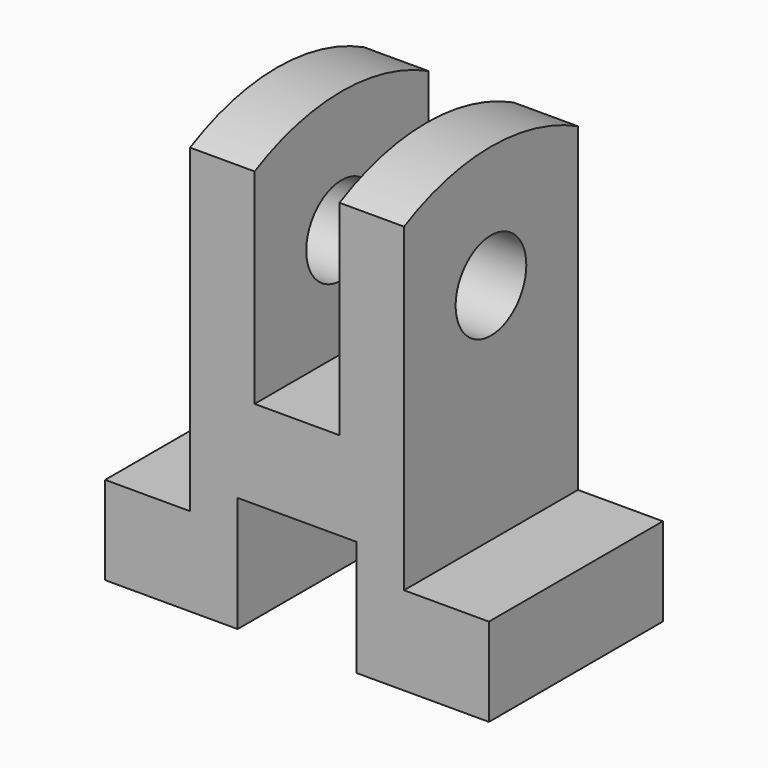
from build123d import *

# Parameters (mm, degrees)
F0_W     = 32
F0_H     = 13
F1_DEPTH = 28.25
F0_H_2   = 4
F0_R     = 6.5
F2_DEPTH = 15.75
F3_DEPTH = 6.25
F4_DEPTH = 8.75
F6_R     = 6.5
F7_DEPTH = 50


with BuildPart() as f1:
    # F0 (on Right) → F1 (new body, symmetric)
    with BuildSketch(Plane.YZ):
        with Locations((16, 6.5)):
            Rectangle(F0_W, F0_H)
    extrude(amount=F1_DEPTH, both=True)

    # F0 (on Right) → F2 (join, symmetric)
    with BuildSketch(Plane.YZ):
        with Locations((16, 23.5)):
            Rectangle(F0_W, F0_H)
        with Locations((16, 15)):
            Rectangle(F0_W, F0_H_2)
        with BuildLine():
            Line((0, 60.128765), (0, 30))
            Line((0, 30), (32, 30))
            Line((32, 30), (32, 60.128765))
            ThreePointArc((32, 60.128765), (16, 64), (0, 60.128765))
        make_face()
        with Locations((16, 46)):
            Circle(F0_R, mode=Mode.SUBTRACT)
    extrude(amount=F2_DEPTH, both=True)

    # F0 (on Right) → F3 (cut, symmetric)
    with BuildSketch(Plane.YZ):
        with BuildLine():
            Line((0, 60.128765), (0, 30))
            Line((0, 30), (32, 30))
            Line((32, 30), (32, 60.128765))
            ThreePointArc((32, 60.128765), (16, 64), (0, 60.128765))
        make_face()
        with Locations((16, 46)):
            Circle(F0_R, mode=Mode.SUBTRACT)
    extrude(amount=F3_DEPTH, both=True, mode=Mode.SUBTRACT)

    # F0 (on Right) → F4 (cut, symmetric)
    with BuildSketch(Plane.YZ):
        with Locations((16, 15)):
            Rectangle(F0_W, F0_H_2)
        with Locations((16, 6.5)):
            Rectangle(F0_W, F0_H)
    extrude(amount=F4_DEPTH, both=True, mode=Mode.SUBTRACT)


with BuildPart() as f7:
    # F6 (on offset) → F7 (new body)
    with BuildSketch(Plane(origin=(40.75, 16, 37.144454), x_dir=(0, 1, 0), z_dir=(1, 0, 0))):
        with Locations((16, 46)):
            Circle(F6_R)
    extrude(amount=F7_DEPTH)


solid = f1.part
